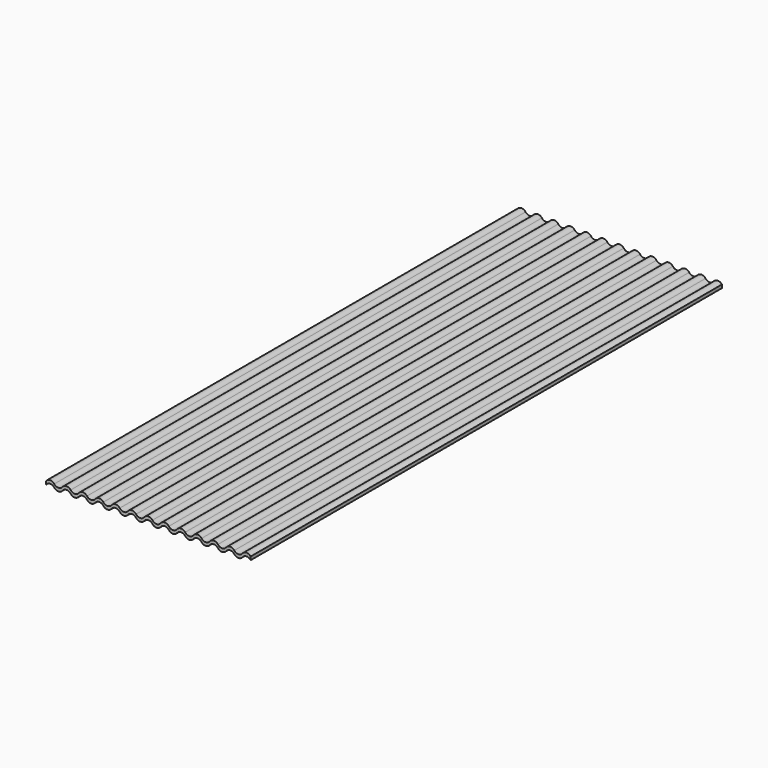
from build123d import *

# Parameters (mm, degrees)
F1_DEPTH = 144


with BuildPart() as f1:
    # F0 (on Front) → F1 (new body)
    with BuildSketch(Plane.XZ):
        with BuildLine():
            ThreePointArc((-21, -0.4), (-20, 0.1), (-19, -0.4))
            ThreePointArc((-19, -0.4), (-18, -0.9), (-17, -0.4))
            ThreePointArc((-17, -0.4), (-16, 0.1), (-15, -0.4))
            ThreePointArc((-15, -0.4), (-14, -0.9), (-13, -0.4))
            ThreePointArc((-13, -0.4), (-12, 0.1), (-11, -0.4))
            ThreePointArc((-11, -0.4), (-10, -0.9), (-9, -0.4))
            ThreePointArc((-9, -0.4), (-8, 0.1), (-7, -0.4))
            ThreePointArc((-7, -0.4), (-6, -0.9), (-5, -0.4))
            ThreePointArc((-5, -0.4), (-4, 0.1), (-3, -0.4))
            ThreePointArc((-3, -0.4), (-2, -0.9), (-1, -0.4))
            ThreePointArc((-1, -0.4), (0, 0.1), (1, -0.4))
            ThreePointArc((1, -0.4), (2, -0.9), (3, -0.4))
            ThreePointArc((3, -0.4), (4, 0.1), (5, -0.4))
            ThreePointArc((5, -0.4), (6, -0.9), (7, -0.4))
            ThreePointArc((7, -0.4), (8, 0.1), (9, -0.4))
            ThreePointArc((9, -0.4), (10, -0.9), (11, -0.4))
            ThreePointArc((11, -0.4), (12, 0.1), (13, -0.4))
            ThreePointArc((13, -0.4), (14, -0.9), (15, -0.4))
            ThreePointArc((15, -0.4), (16, 0.1), (17, -0.4))
            ThreePointArc((17, -0.4), (18, -0.9), (19, -0.4))
            ThreePointArc((19, -0.4), (20, 0.1), (21, -0.4))
            ThreePointArc((21, -0.4), (22, -0.9), (23, -0.4))
            ThreePointArc((23, -0.4), (24, 0.1), (25, -0.4))
            Line((25, -0.4), (25, 0.4))
            ThreePointArc((25, 0.4), (24, 0.9), (23, 0.4))
            ThreePointArc((23, 0.4), (22, -0.1), (21, 0.4))
            ThreePointArc((21, 0.4), (20, 0.9), (19, 0.4))
            ThreePointArc((19, 0.4), (18, -0.1), (17, 0.4))
            ThreePointArc((17, 0.4), (16, 0.9), (15, 0.4))
            ThreePointArc((15, 0.4), (14, -0.1), (13, 0.4))
            ThreePointArc((13, 0.4), (12, 0.9), (11, 0.4))
            ThreePointArc((11, 0.4), (10, -0.1), (9, 0.4))
            ThreePointArc((9, 0.4), (8, 0.9), (7, 0.4))
            ThreePointArc((7, 0.4), (6, -0.1), (5, 0.4))
            ThreePointArc((5, 0.4), (4, 0.9), (3, 0.4))
            ThreePointArc((3, 0.4), (2, -0.1), (1, 0.4))
            ThreePointArc((1, 0.4), (0, 0.9), (-1, 0.4))
            ThreePointArc((-1, 0.4), (-2, -0.1), (-3, 0.4))
            ThreePointArc((-3, 0.4), (-4, 0.9), (-5, 0.4))
            ThreePointArc((-5, 0.4), (-6, -0.1), (-7, 0.4))
            ThreePointArc((-7, 0.4), (-8, 0.9), (-9, 0.4))
            ThreePointArc((-9, 0.4), (-10, -0.1), (-11, 0.4))
            ThreePointArc((-11, 0.4), (-12, 0.9), (-13, 0.4))
            ThreePointArc((-13, 0.4), (-14, -0.1), (-15, 0.4))
            ThreePointArc((-15, 0.4), (-16, 0.9), (-17, 0.4))
            ThreePointArc((-17, 0.4), (-18, -0.1), (-19, 0.4))
            ThreePointArc((-19, 0.4), (-20, 0.9), (-21, 0.4))
            ThreePointArc((-21, 0.4), (-22, -0.1), (-23, 0.4))
            ThreePointArc((-23, 0.4), (-24, 0.9), (-25, 0.4))
            Line((-25, 0.4), (-25, -0.4))
            ThreePointArc((-25, -0.4), (-24, 0.1), (-23, -0.4))
            ThreePointArc((-23, -0.4), (-22, -0.9), (-21, -0.4))
        make_face()
    extrude(amount=F1_DEPTH)


solid = f1.part
